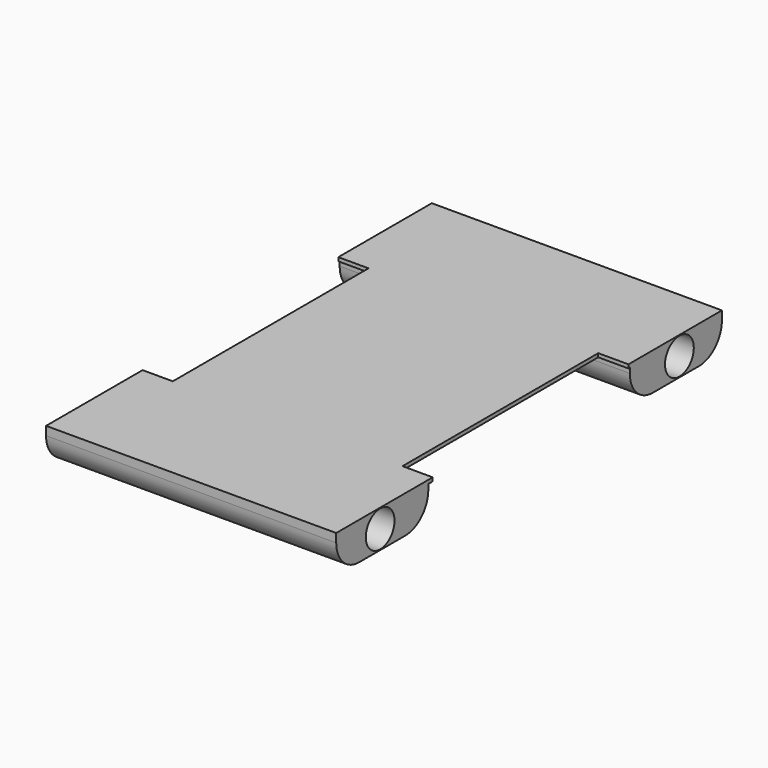
from build123d import *

# Parameters (mm, degrees)
F0_W     = 51.2064
F0_H     = 85.09
F1_DEPTH = 6.604
F2_R     = 3.175
F3_DEPTH = 95.21702
F4_W     = 51.2064
F4_H     = 44.45
F5_DEPTH = 5.95932
F6_R     = 5.08
F7_W     = 5.334
F7_H     = 43.18
F8_DEPTH = 25.4


with BuildPart() as f1:
    # F0 (on Top) → F1 (new body)
    with BuildSketch(Plane.XY):
        with Locations((-4.726471, -15.027478)):
            Rectangle(F0_W, F0_H)
    extrude(amount=-F1_DEPTH)

    # F2 (on face) → F3 (cut)
    with BuildSketch(Plane.YZ.offset(20.876729)):
        with Locations((18.137634, -3.302)):
            Circle(F2_R)
        with Locations((-47.881499, -3.302)):
            Circle(F2_R)
    extrude(amount=-F3_DEPTH, mode=Mode.SUBTRACT)

    # F4 (on face) → F5 (cut)
    with BuildSketch(Plane(origin=(0, 0, -6.604), x_dir=(1, 0, 0), z_dir=(0, 0, -1))):
        with Locations((-4.726471, 15.027478)):
            Rectangle(F4_W, F4_H)
    extrude(amount=-F5_DEPTH, mode=Mode.SUBTRACT)

    # F6
    f6_edges = [f1.edges().sort_by_distance(p)[0] for p in [
        (-4.726471, -37.252478, -6.604),
        (-4.726471, -57.572478, -6.604),
        (-4.726471, 7.197522, -6.604),
        (-4.726471, 27.517522, -6.604),
    ]]
    fillet(f6_edges, radius=F6_R)

    # F7 (on face) → F8 (cut)
    with BuildSketch(Plane.XY):
        with Locations((-27.662671, -14.693605)):
            Rectangle(F7_W, F7_H)
        with Locations((18.209729, -14.693605)):
            Rectangle(F7_W, F7_H)
    extrude(amount=-F8_DEPTH, mode=Mode.SUBTRACT)


solid = f1.part
